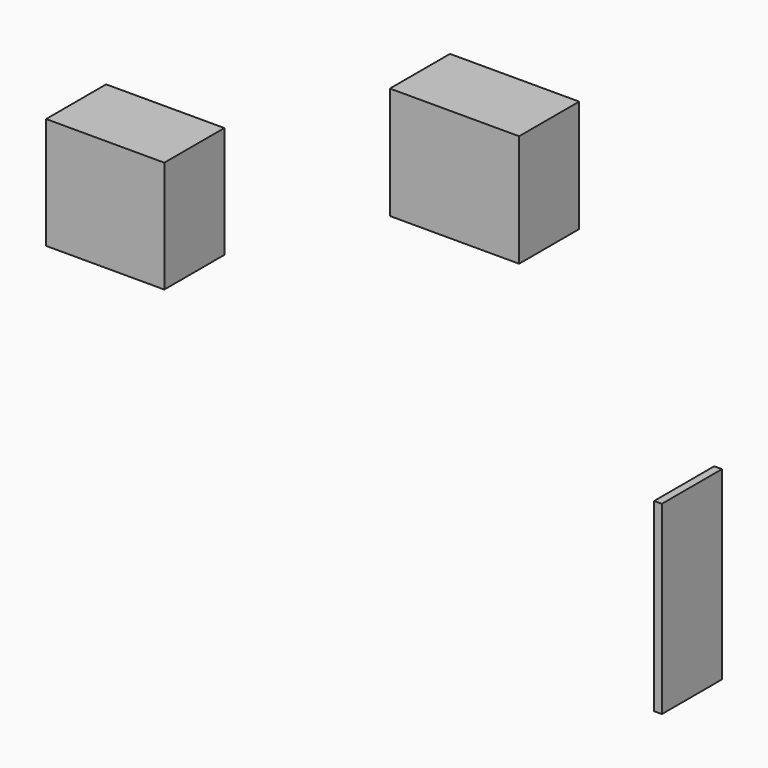
from build123d import *

# Parameters (mm, degrees)
F0_W     = 39.371777
F0_H     = 37.201162
F1_DEPTH = 25
F2_W     = 2.588257
F2_H     = 61.664883
F2_W_2   = 43.028053
F2_H_2   = 37.384499
F3_DEPTH = 25


with BuildPart() as f1:
    # F0 (on Front) → F1 (new body)
    with BuildSketch(Plane.XZ):
        with Locations((-55.936349, 4.066874)):
            Rectangle(F0_W, F0_H)
    extrude(amount=F1_DEPTH)


with BuildPart() as f3:
    # F2 (on Front) → F3 (new body)
    with BuildSketch(Plane.XZ):
        with Locations((128.165237, -54.291291)):
            Rectangle(F2_W, F2_H)
        with Locations((60.400593, 50.153246)):
            Rectangle(F2_W_2, F2_H_2)
    extrude(amount=F3_DEPTH)


solid = Compound([f1.part, f3.part])
